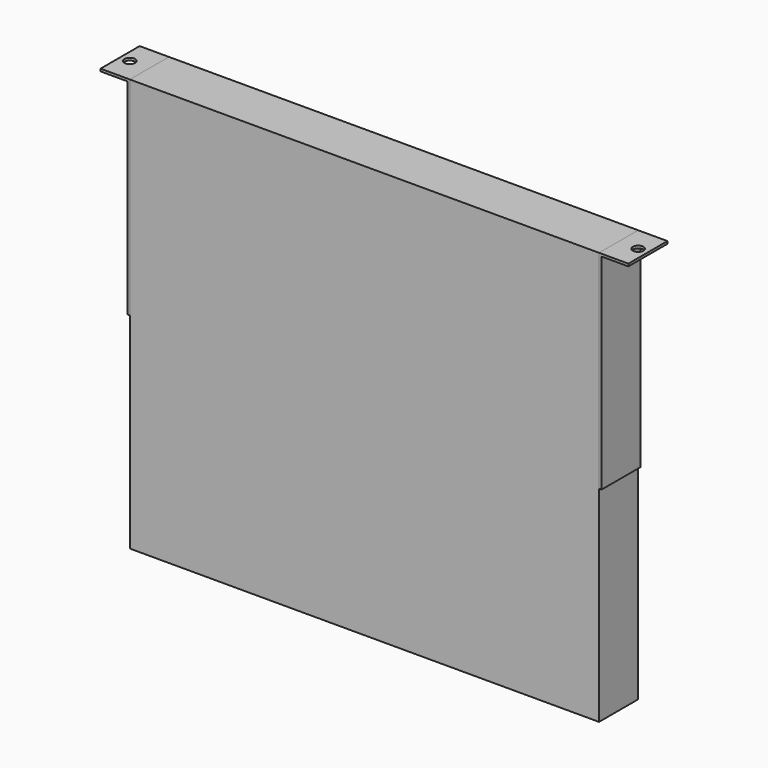
from build123d import *

# Parameters (mm, degrees)
F0_W       = 192
F0_H       = 169
F1_DEPTH   = 20
F3_DEPTH   = 20
F5_D       = 4.4
F5_DEPTH   = 12
F5_TIP     = 1.3218933619
F5_2_D     = 4.4
F5_2_DEPTH = 12
F5_2_TIP   = 1.3218933619


with BuildPart() as f1:
    # F0 (on Front) → F1 (new body)
    with BuildSketch(Plane.XZ):
        Rectangle(F0_W, F0_H)
    extrude(amount=F1_DEPTH)


with BuildPart() as f3:
    # F2 (on face) → F3 (new body)
    with BuildSketch(Plane.XZ.offset(20)):
        Polygon((-96, -0.5), (-96, 84.5), (-97, 84.5), (-108, 84.5), (-108, 83.5), (-97, 83.5), (-97, -0.5), align=None)
    extrude(amount=-F3_DEPTH)

    # F5
    with Locations(Plane.XY.offset(84.5)):
        with Locations((-104, -10), (104, -10)):
            Hole(F5_D / 2, depth=F5_DEPTH)
            with Locations((0, 0, -(F5_DEPTH + F5_TIP / 2))):  # 118° drill point
                Cone(0, F5_D / 2, F5_TIP, mode=Mode.SUBTRACT)


with BuildPart() as f3b:
    # F2 (on face) → F3, piece 2 (new body)
    with BuildSketch(Plane.XZ.offset(20)):
        Polygon((108, 83.5), (108, 84.5), (97, 84.5), (96, 84.5), (96, -0.5), (97, -0.5), (97, 83.5), align=None)
    extrude(amount=-F3_DEPTH)

    # F5#2
    with Locations(Plane.XY.offset(84.5)):
        with Locations((-104, -10), (104, -10)):
            Hole(F5_2_D / 2, depth=F5_2_DEPTH)
            with Locations((0, 0, -(F5_2_DEPTH + F5_2_TIP / 2))):  # 118° drill point
                Cone(0, F5_2_D / 2, F5_2_TIP, mode=Mode.SUBTRACT)


solid = Compound([f1.part, f3.part, f3b.part])
